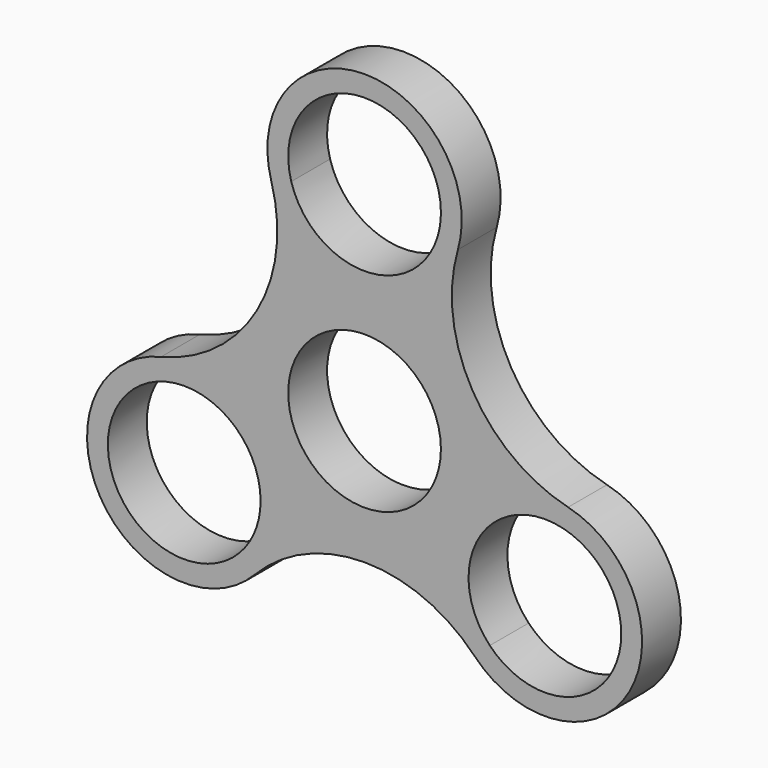
from build123d import *

# Parameters (mm, degrees)
F0_R     = 11
F1_DEPTH = 7
F2_SCALE = 0.5


with BuildPart() as f1:
    # F0 (on Front) → F1 (new body)
    with BuildSketch(Plane.XZ):
        with BuildLine():
            ThreePointArc((29.3216524239, -1.4044694133), (15.5190640284, 8.9599357944), (13.4445200212, 26.0955305867))
            ThreePointArc((13.4445200212, 26.0955305867), (0, 44), (-13.4445200212, 26.0955305867))
            ThreePointArc((-13.4445200212, 26.0955305867), (-15.5190640284, 8.9599357944), (-29.3216524239, -1.4044694133))
            ThreePointArc((-29.3216524239, -1.4044694133), (-38.1051177665, -22), (-15.8771324027, -24.6910611734))
            ThreePointArc((-15.8771324027, -24.6910611734), (0, -17.9198715888), (15.8771324027, -24.6910611734))
            ThreePointArc((15.8771324027, -24.6910611734), (38.1051177665, -22), (29.3216524239, -1.4044694133))
        make_face()
        with BuildLine():
            ThreePointArc((11, 30), (10.8903412687, 28.4506559287), (10.5635514452, 26.9322026038))
            ThreePointArc((10.5635514452, 26.9322026038), (12.9209878171, 7.4599357944), (28.6057473574, -4.3177973962))
            ThreePointArc((28.6057473574, -4.3177973962), (34.6374022725, -8.2130580407), (36.9807621135, -15))
            ThreePointArc((36.9807621135, -15), (30.084161423, -25.2059842302), (18.0421959122, -22.6144052077))
            ThreePointArc((18.0421959122, -22.6144052077), (0, -14.9198715888), (-18.0421959122, -22.6144052077))
            ThreePointArc((-18.0421959122, -22.6144052077), (-35.5070415552, -20.5), (-28.6057473574, -4.3177973962))
            ThreePointArc((-28.6057473574, -4.3177973962), (-12.9209878171, 7.4599357944), (-10.5635514452, 26.9322026038))
            ThreePointArc((-10.5635514452, 26.9322026038), (-1.5493440713, 40.8903412687), (11, 30))
        make_face(mode=Mode.SUBTRACT)
        with BuildLine():
            ThreePointArc((28.6057473574, -4.3177973962), (12.9209878171, 7.4599357944), (10.5635514452, 26.9322026038))
            ThreePointArc((10.5635514452, 26.9322026038), (0, 19), (-10.5635514452, 26.9322026038))
            ThreePointArc((-10.5635514452, 26.9322026038), (-12.9209878171, 7.4599357944), (-28.6057473574, -4.3177973962))
            ThreePointArc((-28.6057473574, -4.3177973962), (-19.1938201542, -6.3433598411), (-14.9807621135, -15))
            ThreePointArc((-14.9807621135, -15), (-15.7747778833, -19.1033993094), (-18.0421959122, -22.6144052077))
            ThreePointArc((-18.0421959122, -22.6144052077), (0, -14.9198715888), (18.0421959122, -22.6144052077))
            ThreePointArc((18.0421959122, -22.6144052077), (16.4544826719, -9.5), (28.6057473574, -4.3177973962))
        make_face()
        Circle(F0_R, mode=Mode.SUBTRACT)
    extrude(amount=F1_DEPTH)


with BuildPart() as f1_1:
    # F2: moved
    add(f1.part.scale(F2_SCALE))


solid = f1_1.part
